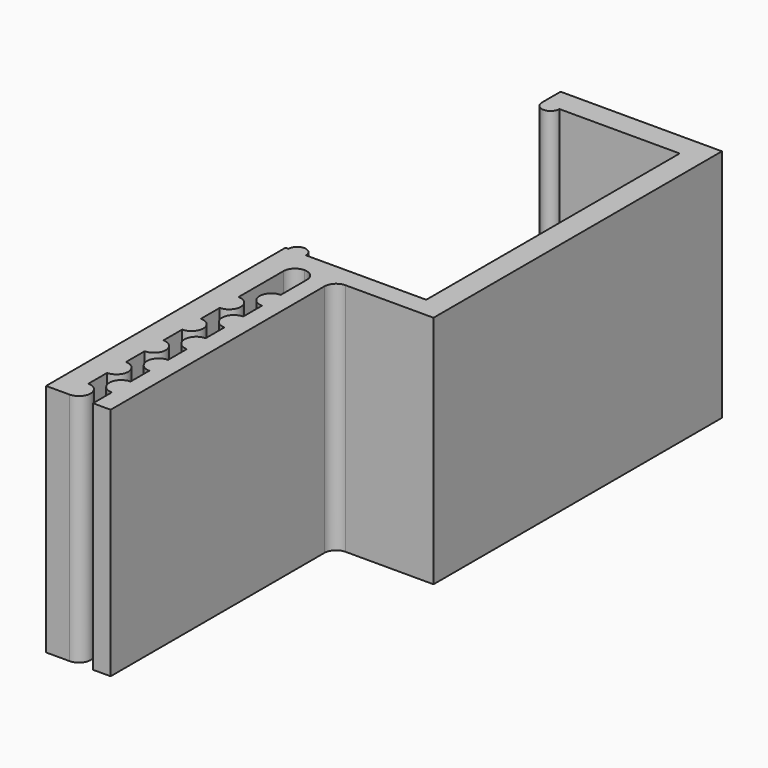
from build123d import *

# Parameters (mm, degrees)
F1_DEPTH = 20


with BuildPart() as f1:
    # F0 (on Top) → F1 (new body)
    with BuildSketch(Plane.XY):
        with BuildLine():
            Line((0, 25.5), (0, 0))
            Line((0, 0), (2, 0))
            ThreePointArc((2, 0), (3, 1), (2, 2))
            Line((2, 2), (2, 4))
            ThreePointArc((2, 4), (3, 5), (2, 6))
            Line((2, 6), (2, 8))
            ThreePointArc((2, 8), (3, 9), (2, 10))
            Line((2, 10), (2, 12))
            ThreePointArc((2, 12), (3, 13), (2, 14))
            Line((2, 14), (2, 16))
            ThreePointArc((2, 16), (3, 17), (2, 18))
            Line((2, 18), (2, 22.776263))
            ThreePointArc((2, 22.776263), (2.292893, 23.48337), (3, 23.776263))
            ThreePointArc((3, 23.776263), (3.707107, 23.48337), (4, 22.776263))
            Line((4, 22.776263), (4, 20))
            ThreePointArc((4, 20), (3, 19), (4, 18))
            Line((4, 18), (4, 16))
            ThreePointArc((4, 16), (3, 15), (4, 14))
            Line((4, 14), (4, 12))
            ThreePointArc((4, 12), (3, 11), (4, 10))
            Line((4, 10), (4, 8))
            ThreePointArc((4, 8), (3, 7), (4, 6))
            Line((4, 6), (4, 4))
            ThreePointArc((4, 4), (3, 3), (4, 2))
            Line((4, 2), (4, 0))
            Line((4, 0), (5.5, 0))
            Line((5.5, 0), (5.5, 22.776263))
            ThreePointArc((5.5, 22.776263), (5.792893, 23.48337), (6.5, 23.776263))
            Line((6.5, 23.776263), (14, 23.776263))
            Line((14, 23.776263), (14, 54.5))
            Line((14, 54.5), (0.25, 54.5))
            Line((0.25, 54.5), (0.25, 52.5))
            ThreePointArc((0.25, 52.5), (1, 51.75), (1.75, 52.5))
            Line((1.75, 52.5), (12, 52.5))
            Line((12, 52.5), (12, 25.5))
            Line((12, 25.5), (1.75, 25.5))
            ThreePointArc((1.75, 25.5), (1, 26.25), (0.25, 25.5))
            Line((0.25, 25.5), (0, 25.5))
        make_face()
    extrude(amount=F1_DEPTH)


solid = f1.part
